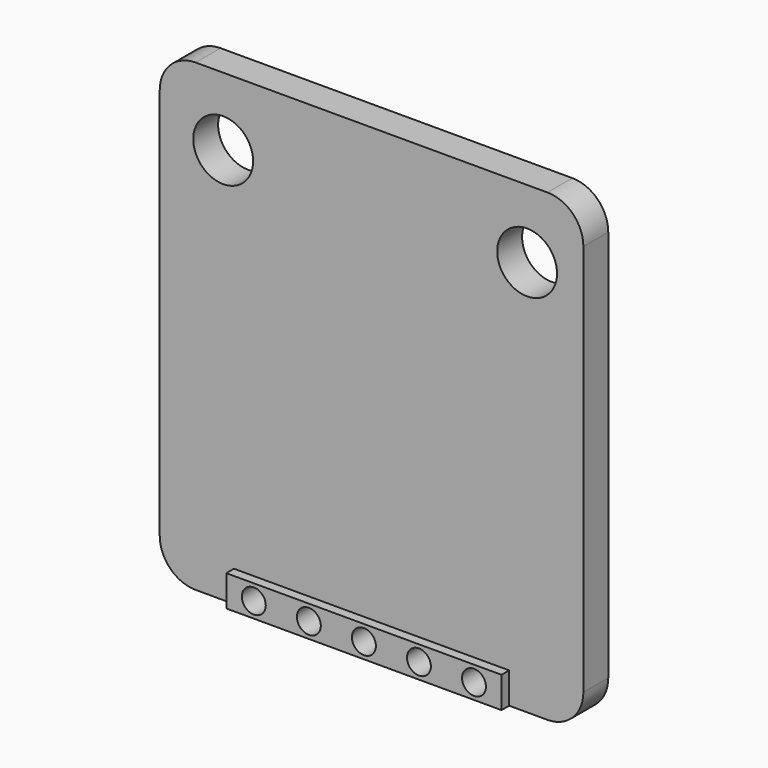
from build123d import *

# Parameters (mm, degrees)
F0_R     = 1.25
F1_DEPTH = 1.3
F0_R_2   = 0.5
F2_DEPTH = 1.7
F3_DEPTH = 3.7


with BuildPart() as f1:
    # F0 (on Front) → F1 (new body)
    with BuildSketch(Plane.XZ):
        with BuildLine():
            ThreePointArc((-29.219525, -15.672949), (-28.780185, -16.73361), (-27.719525, -17.172949))
            Line((-27.719525, -17.172949), (-26.119525, -17.172949))
            Line((-26.119525, -17.172949), (-26.119525, -15.872949))
            Line((-26.119525, -15.872949), (-23.819525, -15.872949))
            Line((-23.819525, -15.872949), (-14.619525, -15.872949))
            Line((-14.619525, -15.872949), (-14.619525, -17.172949))
            Line((-14.619525, -17.172949), (-13.019525, -17.172949))
            ThreePointArc((-13.019525, -17.172949), (-11.958865, -16.73361), (-11.519525, -15.672949))
            Line((-11.519525, -15.672949), (-11.519525, 0.727051))
            ThreePointArc((-11.519525, 0.727051), (-11.958865, 1.787711), (-13.019525, 2.227051))
            Line((-13.019525, 2.227051), (-27.719525, 2.227051))
            ThreePointArc((-27.719525, 2.227051), (-28.780185, 1.787711), (-29.219525, 0.727051))
            Line((-29.219525, 0.727051), (-29.219525, -15.672949))
        make_face()
        with Locations((-26.569525, -0.622949)):
            Circle(F0_R, mode=Mode.SUBTRACT)
        with Locations((-13.869525, -0.622949)):
            Circle(F0_R, mode=Mode.SUBTRACT)
    extrude(amount=F1_DEPTH)

    # F0 (on Front) → F2 (join)
    with BuildSketch(Plane.XZ):
        Polygon((-26.119525, -15.872949), (-26.119525, -17.172949), (-14.619525, -17.172949), (-14.619525, -15.872949), (-23.819525, -15.872949), align=None)
        with Locations((-24.969525, -16.522949)):
            Circle(F0_R_2, mode=Mode.SUBTRACT)
        with Locations((-22.669525, -16.522949)):
            Circle(F0_R_2, mode=Mode.SUBTRACT)
        with Locations((-20.369525, -16.522949)):
            Circle(F0_R_2, mode=Mode.SUBTRACT)
        with Locations((-18.069525, -16.522949)):
            Circle(F0_R_2, mode=Mode.SUBTRACT)
        with Locations((-15.769525, -16.522949)):
            Circle(F0_R_2, mode=Mode.SUBTRACT)
    extrude(amount=F2_DEPTH)


with BuildPart() as f3:
    # F0 (on Front) → F3 (new body)
    with BuildSketch(Plane.XZ):
        with Locations((-24.969525, -16.522949)):
            Circle(F0_R_2)
        with Locations((-22.669525, -16.522949)):
            Circle(F0_R_2)
        with Locations((-20.369525, -16.522949)):
            Circle(F0_R_2)
        with Locations((-18.069525, -16.522949)):
            Circle(F0_R_2)
        with Locations((-15.769525, -16.522949)):
            Circle(F0_R_2)
    extrude(amount=-F3_DEPTH)


solid = Compound([f1.part, f3.part])
